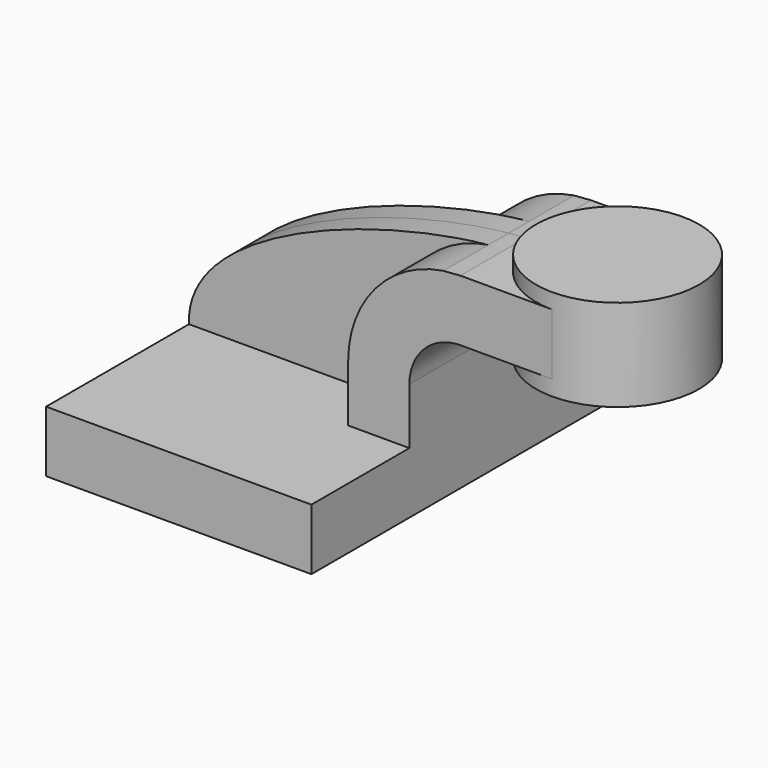
from build123d import *

# Parameters (mm, degrees)
F1_DEPTH = 63.5
F2_DEPTH = 7.9375
F0_W     = 25.4
F0_H     = 19.05
F3_DEPTH = 25.4


with BuildPart() as f1:
    # F0 (on Front) → F1 (new body, symmetric)
    with BuildSketch(Plane.XZ):
        Polygon((41.275, -9.525), (41.275, 9.525), (22.225, 9.525), (-41.275, 9.525), (-41.275, -9.525), align=None)
    extrude(amount=F1_DEPTH, both=True)

    # F0 (on Front) → F2 (join, symmetric)
    with BuildSketch(Plane.XZ):
        with BuildLine():
            Line((-41.275, 9.525), (22.225, 9.525))
            Line((22.225, 9.525), (22.225, 27.0002))
            ThreePointArc((22.225, 27.0002), (30.6519829848, 49.7512597394), (51.8662723988, 61.5232046148))
            add(Edge.make_bspline(
                [(-41.275, 9.525), (-42.4839697901, 38.0803204512), (17.0147305919, 58.0960971438), (51.8662723988, 61.5232046148)],
                knots=[0, 0, 0, 0, 105.9312779521, 105.9312779521, 105.9312779521, 105.9312779521], degree=3))
        make_face()
    extrude(amount=F2_DEPTH, both=True)

    # F0 (on Front) → F3 (join, symmetric)
    with BuildSketch(Plane.XZ):
        with BuildLine():
            Line((22.225, 9.525), (41.275, 9.525))
            Line((41.275, 9.525), (41.275, 27.0002))
            ThreePointArc((41.275, 27.0002), (45.9246798487, 38.2255201513), (57.15, 42.8752))
            Line((57.15, 42.8752), (60.325, 42.8752))
            Line((60.325, 42.8752), (60.325, 61.9252))
            Line((60.325, 61.9252), (57.15, 61.9252))
            add(Edge.make_bspline(
                [(51.8662723988, 61.5232046148), (53.6998823137, 61.7035116518), (55.4652682936, 61.8379008486), (57.15, 61.9252)],
                knots=[105.9312779521, 105.9312779521, 105.9312779521, 105.9312779521, 111.5045361635, 111.5045361635, 111.5045361635, 111.5045361635], degree=3))
            ThreePointArc((51.8662723988, 61.5232046148), (30.6519829848, 49.7512597394), (22.225, 27.0002))
            Line((22.225, 27.0002), (22.225, 9.525))
        make_face()
        with Locations((73.025, 52.4002)):
            Rectangle(F0_W, F0_H)
    extrude(amount=F3_DEPTH, both=True)

    # F0 (on Front) → F4 (revolve)
    with BuildSketch(Plane.XZ):
        Polygon((85.725, 61.9252), (85.725, 42.8752), (85.725, 38.1), (111.125, 38.1), (111.125, 66.675), (85.725, 66.675), align=None)
    revolve(axis=Axis((85.725, 0, 52.3875), (0, 0, -1)))


solid = f1.part
